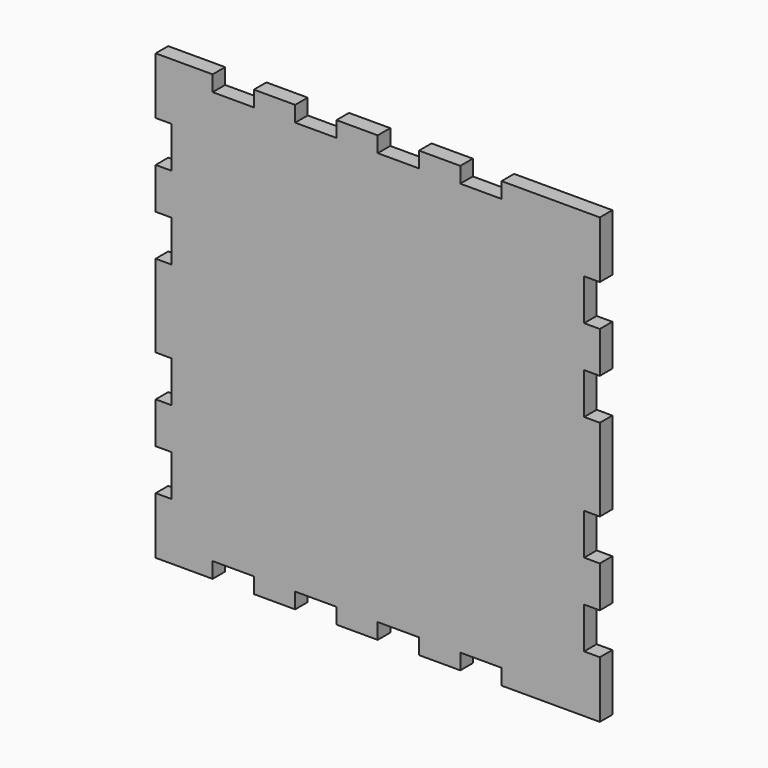
from build123d import *

# Parameters (mm, degrees)
F1_DEPTH = 3


with BuildPart() as f1:
    # F0 (on Front) → F1 (new body)
    with BuildSketch(Plane.XZ):
        Polygon((-42.5, -31.6), (-42.5, -42.5), (-31.6, -42.5), (-31.6, -39.5), (-23.7, -39.5), (-23.7, -42.5), (-15.8, -42.5), (-15.8, -39.5), (-7.9, -39.5), (-7.9, -42.5), (0, -42.5), (0, -39.5), (7.9, -39.5), (7.9, -42.5), (15.8, -42.5), (15.8, -39.5), (23.7, -39.5), (23.7, -42.5), (42.5, -42.5), (42.5, -31.6), (39.5, -31.6), (39.5, -23.7), (42.5, -23.7), (42.5, -15.8), (39.5, -15.8), (39.5, -7.9), (42.5, -7.9), (42.5, 0), (42.5, 7.9), (39.5, 7.9), (39.5, 15.8), (42.5, 15.8), (42.5, 23.7), (39.5, 23.7), (39.5, 31.6), (42.5, 31.6), (42.5, 42.5), (23.7, 42.5), (23.7, 39.5), (15.8, 39.5), (15.8, 42.5), (7.9, 42.5), (7.9, 39.5), (0, 39.5), (0, 42.5), (-7.9, 42.5), (-7.9, 39.5), (-15.8, 39.5), (-15.8, 42.5), (-23.7, 42.5), (-23.7, 39.5), (-31.6, 39.5), (-31.6, 42.5), (-42.5, 42.5), (-42.5, 31.6), (-39.5, 31.6), (-39.5, 23.7), (-42.5, 23.7), (-42.5, 15.8), (-39.5, 15.8), (-39.5, 7.9), (-42.5, 7.9), (-42.5, 0), (-42.5, -7.9), (-39.5, -7.9), (-39.5, -15.8), (-42.5, -15.8), (-42.5, -23.7), (-39.5, -23.7), (-39.5, -31.6), align=None)
    extrude(amount=F1_DEPTH)


solid = f1.part
